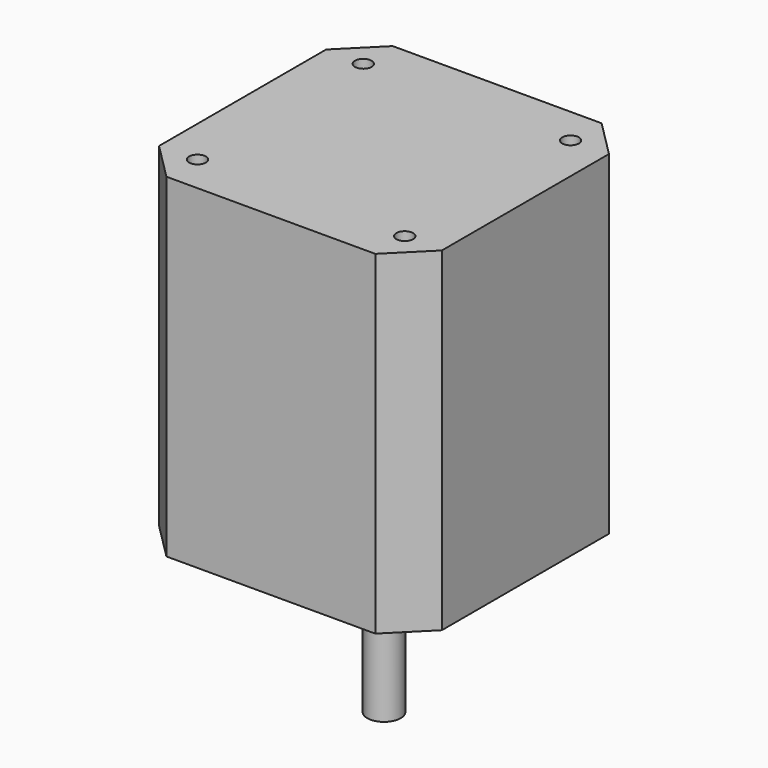
from build123d import *

# Parameters (mm, degrees)
BOX002_W                    = 100
BOX002_H                    = 100
BOX002_DEPTH                = 50
COMPOUND002_PLACEMENT_ANGLE = 135
BOX003_W                    = 100
BOX003_H                    = 100
BOX003_DEPTH                = 50
COMPOUND003_PLACEMENT_ANGLE = 225
BOX004_W                    = 100
BOX004_H                    = 100
BOX004_DEPTH                = 50
COMPOUND004_PLACEMENT_ANGLE = 315
BOX001_W                    = 100
BOX001_H                    = 100
BOX001_DEPTH                = 50
COMPOUND001_PLACEMENT_ANGLE = 45
CYLINDER002_R               = 1.25
CYLINDER002_DEPTH           = 50
CYLINDER003_R               = 1.25
CYLINDER003_DEPTH           = 50
CYLINDER004_R               = 1.25
CYLINDER004_DEPTH           = 50
CYLINDER005_R               = 1.25
CYLINDER005_DEPTH           = 50
BOX_W                       = 42.3
BOX_H                       = 42.3
BOX_DEPTH                   = 50
CYLINDER_R                  = 11
CYLINDER_DEPTH              = 2
CYLINDER001_R               = 2.5
CYLINDER001_DEPTH           = 24


with BuildPart() as compound002:
    # Box002 → Box002 (new body)
    with BuildSketch(Plane(origin=(26, -50, 0), x_dir=(1, 0, 0), z_dir=(0, 0, 1))):
        with Locations((50, 50)):
            Rectangle(BOX002_W, BOX002_H)
    extrude(amount=BOX002_DEPTH)


with BuildPart() as compound002_1:
    # Compound002 placement: moved
    add(compound002.part.rotate(Axis((0, 0, 0), (0, 0, 1)), COMPOUND002_PLACEMENT_ANGLE))


with BuildPart() as compound003:
    # Box003 → Box003 (new body)
    with BuildSketch(Plane(origin=(26, -50, 0), x_dir=(1, 0, 0), z_dir=(0, 0, 1))):
        with Locations((50, 50)):
            Rectangle(BOX003_W, BOX003_H)
    extrude(amount=BOX003_DEPTH)


with BuildPart() as compound003_1:
    # Compound003 placement: moved
    add(compound003.part.rotate(Axis((0, 0, 0), (0, 0, 1)), COMPOUND003_PLACEMENT_ANGLE))


with BuildPart() as compound004:
    # Box004 → Box004 (new body)
    with BuildSketch(Plane(origin=(26, -50, 0), x_dir=(1, 0, 0), z_dir=(0, 0, 1))):
        with Locations((50, 50)):
            Rectangle(BOX004_W, BOX004_H)
    extrude(amount=BOX004_DEPTH)


with BuildPart() as compound004_1:
    # Compound004 placement: moved
    add(compound004.part.rotate(Axis((0, 0, 0), (0, 0, 1)), COMPOUND004_PLACEMENT_ANGLE))


with BuildPart() as compound005:
    # Box001 → Box001 (new body)
    with BuildSketch(Plane(origin=(26, -50, 0), x_dir=(1, 0, 0), z_dir=(0, 0, 1))):
        with Locations((50, 50)):
            Rectangle(BOX001_W, BOX001_H)
    extrude(amount=BOX001_DEPTH)


with BuildPart() as compound005_1:
    # Compound001 placement: moved
    add(compound005.part.rotate(Axis((0, 0, 0), (0, 0, 1)), COMPOUND001_PLACEMENT_ANGLE))

    # Compound005: union Compound002, Compound003, Compound004
    add(compound002_1.part)
    add(compound003_1.part)
    add(compound004_1.part)


with BuildPart() as cylinder002:
    # Cylinder002 → Cylinder002 (new body)
    with BuildSketch(Plane(origin=(15.5, 15.5, 0), x_dir=(1, 0, 0), z_dir=(0, 0, 1))):
        Circle(CYLINDER002_R)
    extrude(amount=CYLINDER002_DEPTH)


with BuildPart() as cylinder003:
    # Cylinder003 → Cylinder003 (new body)
    with BuildSketch(Plane(origin=(-15.5, 15.5, 0), x_dir=(1, 0, 0), z_dir=(0, 0, 1))):
        Circle(CYLINDER003_R)
    extrude(amount=CYLINDER003_DEPTH)


with BuildPart() as cylinder004:
    # Cylinder004 → Cylinder004 (new body)
    with BuildSketch(Plane(origin=(15.5, -15.5, 0), x_dir=(1, 0, 0), z_dir=(0, 0, 1))):
        Circle(CYLINDER004_R)
    extrude(amount=CYLINDER004_DEPTH)


with BuildPart() as compound:
    # Cylinder005 → Cylinder005 (new body)
    with BuildSketch(Plane(origin=(-15.5, -15.5, 0), x_dir=(1, 0, 0), z_dir=(0, 0, 1))):
        Circle(CYLINDER005_R)
    extrude(amount=CYLINDER005_DEPTH)

    # Compound: union Cylinder002, Cylinder003, Cylinder004
    add(cylinder002.part)
    add(cylinder003.part)
    add(cylinder004.part)


with BuildPart() as cube:
    # Box → Box (new body)
    with BuildSketch(Plane(origin=(-21.15, -21.15, 0), x_dir=(1, 0, 0), z_dir=(0, 0, 1))):
        with Locations((21.15, 21.15)):
            Rectangle(BOX_W, BOX_H)
    extrude(amount=BOX_DEPTH)


with BuildPart() as fusion:
    # Cylinder → Cylinder (new body)
    with BuildSketch(Plane.XY.offset(-2)):
        Circle(CYLINDER_R)
    extrude(amount=CYLINDER_DEPTH)

    # Fusion: union Cube
    add(cube.part)


with BuildPart() as cut001:
    # Cylinder001 → Cylinder001 (new body)
    with BuildSketch(Plane.XY.offset(-24)):
        Circle(CYLINDER001_R)
    extrude(amount=CYLINDER001_DEPTH)

    # Fusion001: union Fusion
    add(fusion.part)

    # Cut: cut Compound
    add(compound.part, mode=Mode.SUBTRACT)

    # Cut001: cut Compound005
    add(compound005_1.part, mode=Mode.SUBTRACT)


solid = cut001.part
